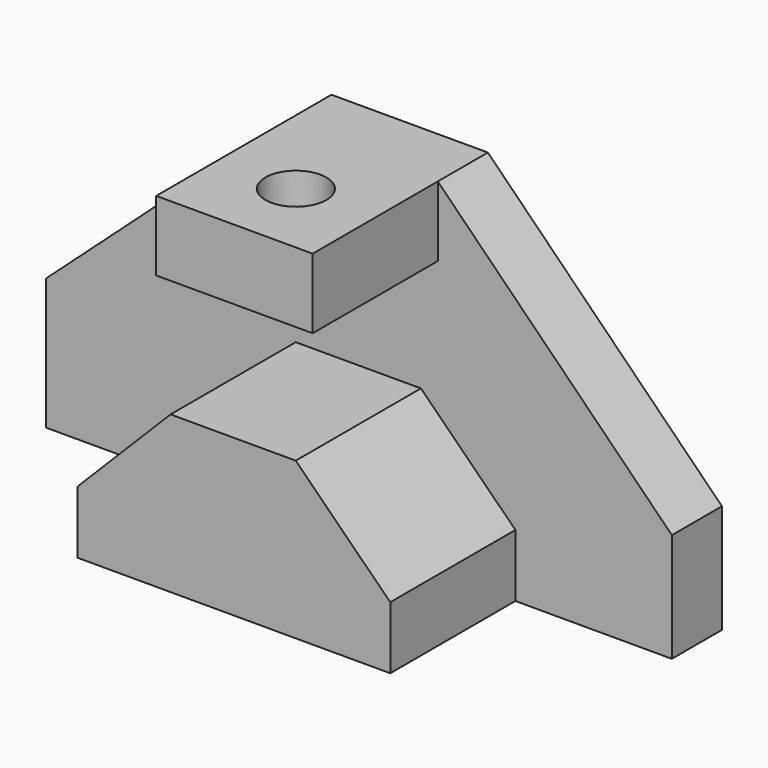
from build123d import *

# Parameters (mm, degrees)
F0_W     = 31.75
F0_H     = 14.224
F1_DEPTH = 44.45
F2_DEPTH = 12.7
F3_R     = 6.203592
F4_DEPTH = 25.4


with BuildPart() as f1:
    # F0 (on Front) → F1 (new body)
    with BuildSketch(Plane.XZ):
        Polygon((-38.101581, -1.696221), (-38.101581, -14.396221), (25.398419, -14.396221), (25.398419, -1.696221), (6.213476, 17.353779), (-19.186524, 17.353779), align=None)
        with Locations((-6.224581, 48.341779)):
            Rectangle(F0_W, F0_H)
    extrude(amount=F1_DEPTH)

    # F3 (on face) → F4 (cut)
    with BuildSketch(Plane.XY.offset(55.453779)):
        with Locations((-6.351581, -28.702)):
            Circle(F3_R)
    extrude(amount=-F4_DEPTH, mode=Mode.SUBTRACT)


with BuildPart() as f2:
    # F0 (on Front) → F2 (new body)
    with BuildSketch(Plane.XZ):
        Polygon((-22.099581, 55.453779), (-69.851581, 12.27123), (-69.851581, -14.396221), (-38.101581, -14.396221), (-38.101581, -1.696221), (-19.186524, 17.353779), (6.213476, 17.353779), (25.398419, -1.696221), (25.398419, -14.396221), (57.148419, -14.396221), (57.148419, 7.701779), (9.650419, 55.453779), (9.650419, 41.229779), (-22.099581, 41.229779), align=None)
    extrude(amount=F2_DEPTH)


solid = Compound([f1.part, f2.part])
